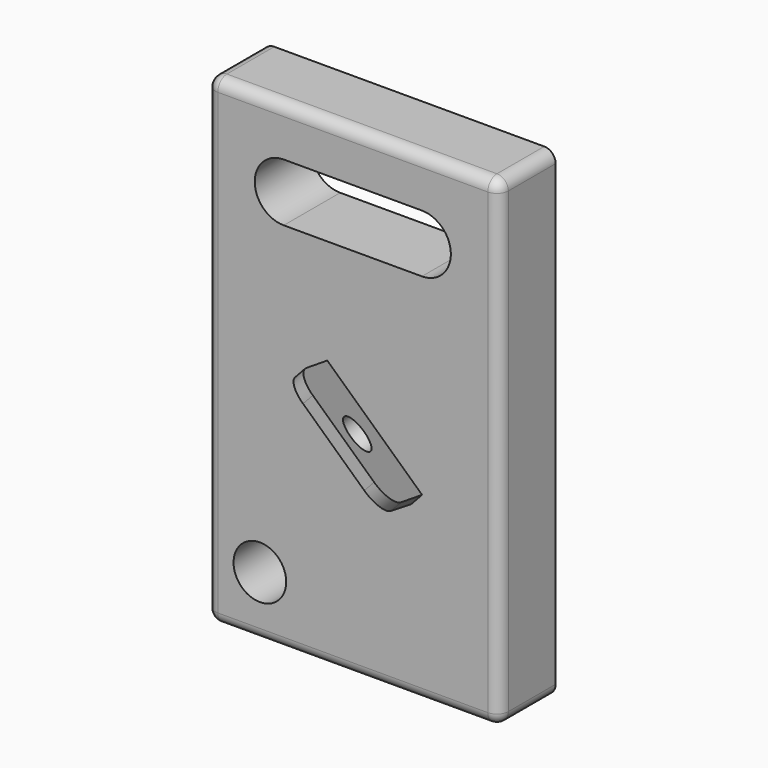
from build123d import *

# Parameters (mm, degrees)
F0_W      = 65.254434
F0_H      = 107.229896
F1_DEPTH  = 7.8625
F2_R      = 5.868431
F3_DEPTH  = 60.29137
F4_DEPTH  = 65.80453
F5_R      = 2.54
F9_DEPTH  = 14.36904
F10_R     = 5.08
F11_R     = 3.805573
F12_DEPTH = 5.85052


with BuildPart() as f1:
    # F0 (on Front) → F1 (new body, symmetric)
    with BuildSketch(Plane.XZ):
        Rectangle(F0_W, F0_H)
    extrude(amount=F1_DEPTH, both=True)

    # F2 (on face) → F3 (cut)
    with BuildSketch(Plane.XZ.offset(7.8625)):
        with BuildLine():
            Line((15.397114, 42.658772), (-15.397114, 42.658772))
            ThreePointArc((-15.397114, 42.658772), (-21.854338, 36.201548), (-15.397114, 29.744324))
            Line((-15.397114, 29.744324), (15.397114, 29.744324))
            ThreePointArc((15.397114, 29.744324), (21.854338, 36.201548), (15.397114, 42.658772))
        make_face()
        with Locations((-20.712784, -40.050827)):
            Circle(F2_R)
    extrude(amount=-F3_DEPTH, mode=Mode.SUBTRACT)

    # F2 (on face) → F4 (cut)
    with BuildSketch(Plane.XZ.offset(7.8625)):
        with BuildLine():
            Line((15.397114, 42.658772), (-15.397114, 42.658772))
            ThreePointArc((-15.397114, 42.658772), (-21.854338, 36.201548), (-15.397114, 29.744324))
            Line((-15.397114, 29.744324), (15.397114, 29.744324))
            ThreePointArc((15.397114, 29.744324), (21.854338, 36.201548), (15.397114, 42.658772))
        make_face()
        with Locations((-20.712784, -40.050827)):
            Circle(F2_R)
    extrude(amount=-F4_DEPTH, mode=Mode.SUBTRACT)

    # F5
    f5_edges = [f1.edges().sort_by_distance(p)[0] for p in [
        (-32.627217, 0, 53.614948),
        (32.627217, 0, 53.614948),
        (32.627217, 0, -53.614948),
        (-32.627217, 0, -53.614948),
        (-32.627217, -7.8625, 0),
        (0, -7.8625, 53.614948),
        (32.627217, -7.8625, 0),
        (0, -7.8625, -53.614948),
    ]]
    fillet(f5_edges, radius=F5_R)

    # F8 (on face) → F9 (join, symmetric)
    with BuildSketch(Plane(origin=(4.31292, 0, -3.978198), x_dir=(0, 1, 0), z_dir=(0.735055, 0, -0.678008))):
        Polygon((-6.416242, -3.535902), (-6.259087, 0), (-23.359215, 8.847466), (-23.359215, 5.644804), align=None)
    extrude(amount=F9_DEPTH, both=True)

    # F10
    f10_edges = [f1.edges().sort_by_distance(p)[0] for p in [
        (-1.336175, -23.359215, 11.090429),
        (19.787886, -23.359215, -8.394213),
    ]]
    fillet(f10_edges, radius=F10_R)

    # F11 (on face) → F12 (cut)
    with BuildSketch(Plane(origin=(-3.675446, -2.937391, -3.984694), x_dir=(0.802896, -0.353719, -0.479834), z_dir=(-0.596119, -0.476414, -0.646276))):
        with Locations((12.278191, 13.279027)):
            Circle(F11_R)
    extrude(amount=-F12_DEPTH, mode=Mode.SUBTRACT)


solid = f1.part
